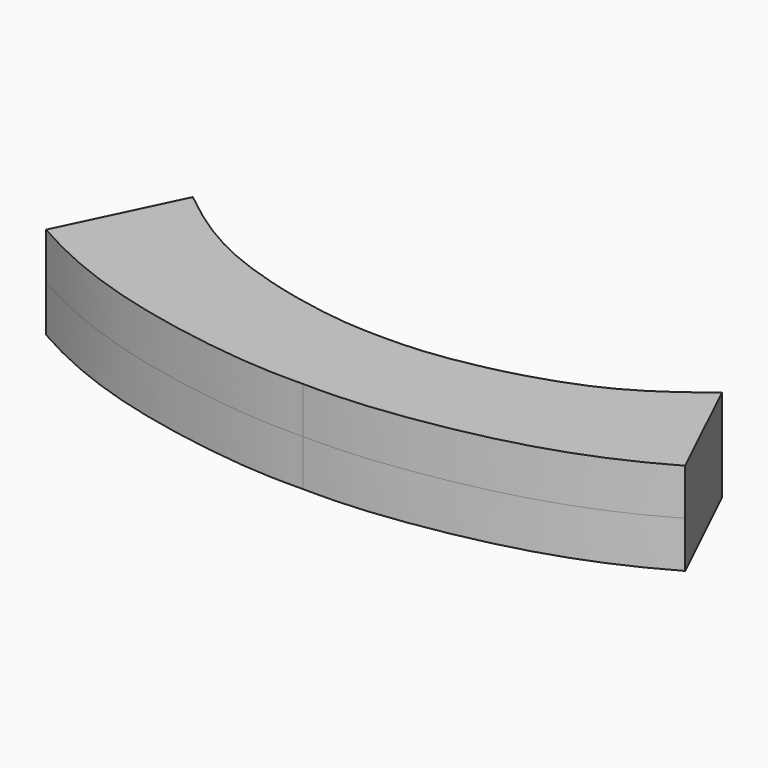
from build123d import *

# Parameters (mm, degrees)
F1_DEPTH = 20.066


with BuildPart() as f1:
    # F0 (on Top) → F1 (new body, symmetric)
    with BuildSketch(Plane.XY):
        with BuildLine():
            Line((-40.7400041414, 0), (-40.3613741967, 27.3410776708))
            add(Edge.make_bspline(
                [(-114.6393641829, 63.0186349154), (-107.418017227, 57.2504469564), (-85.8908182869, 39.927455403), (-53.4912257181, 30.2210678343), (-40.3613741967, 27.3410776708)],
                knots=[0, 0, 0, 0, 0.3353186726, 0.617259691, 0.617259691, 0.617259691, 0.617259691], degree=3))
            Line((-114.6393641829, 63.0186349154), (-138.4681090713, 13.3334891871))
            add(Edge.make_bspline(
                [(-138.4681090713, 13.3334891871), (-115.1514723897, 0), (-75.9728386276, -13.4036170026), (-22.9698172254, -20.889559513), (-6.5260122999, -20.6354582745), (0, -20.6269789487)],
                knots=[0, 0, 0, 0, 0.4161277079, 0.7694206845, 1, 1, 1, 1], degree=3))
            add(Edge.make_bspline(
                [(138.4681090713, 13.3334891871), (115.1514723897, 0), (75.9728386276, -13.4036170026), (22.9698172254, -20.889559513), (6.5260122999, -20.6354582745), (0, -20.6269789487)],
                knots=[0, 0, 0, 0, 0.4161277079, 0.7694206845, 1, 1, 1, 1], degree=3))
            Line((138.4681090713, 13.3334891871), (114.6393641829, 63.0186349154))
            add(Edge.make_bspline(
                [(114.6393641829, 63.0186349154), (107.418017227, 57.2504469564), (85.8908182869, 39.927455403), (53.4912257181, 30.2210678343), (40.3613741967, 27.3410776708)],
                knots=[0, 0, 0, 0, 0.3353186726, 0.617259691, 0.617259691, 0.617259691, 0.617259691], degree=3))
            Line((40.3613741967, 27.3410776708), (40.7400041414, 0))
            Line((40.7400041414, 0), (0, 0))
            Line((0, 0), (-40.7400041414, 0))
        make_face()
        with BuildLine():
            add(Edge.make_bspline(
                [(-40.3613741967, 27.3410776708), (-34.7559501325, 26.1115461609), (-17.8992406607, 23.1022563341), (-7.2161498025, 22.927924029), (0, 22.9036052665)],
                knots=[0.617259691, 0.617259691, 0.617259691, 0.617259691, 0.7376265486, 1, 1, 1, 1], degree=3))
            Line((-40.3613741967, 27.3410776708), (-40.7400041414, 0))
            Line((-40.7400041414, 0), (0, 0))
            Line((0, 0), (40.7400041414, 0))
            Line((40.7400041414, 0), (40.3613741967, 27.3410776708))
            add(Edge.make_bspline(
                [(40.3613741967, 27.3410776708), (34.7559501325, 26.1115461609), (17.8992406607, 23.1022563341), (7.2161498025, 22.927924029), (0, 22.9036052665)],
                knots=[0.617259691, 0.617259691, 0.617259691, 0.617259691, 0.7376265486, 1, 1, 1, 1], degree=3))
        make_face()
    extrude(amount=F1_DEPTH, both=True)


solid = f1.part
